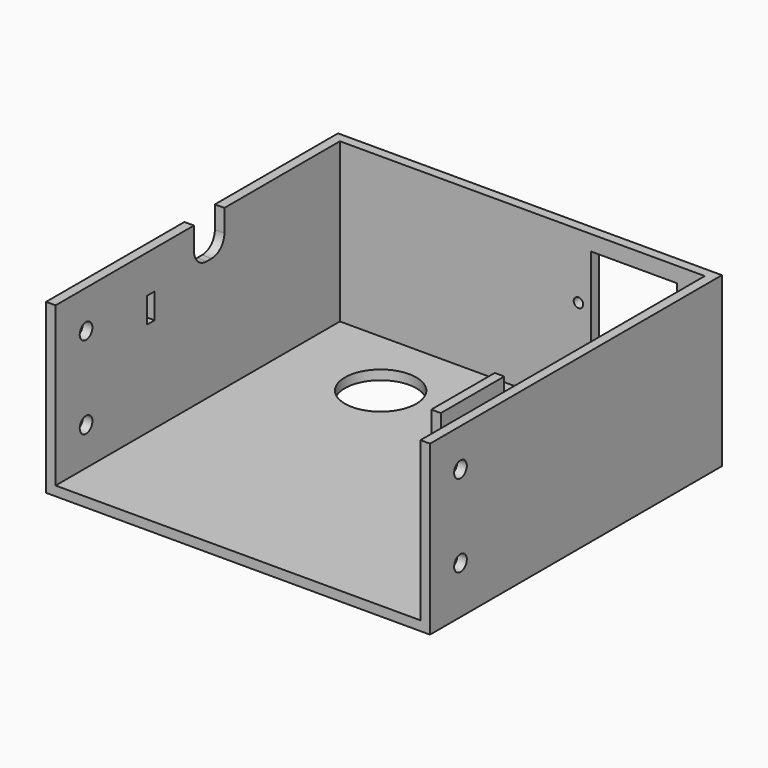
from build123d import *

# Parameters (mm, degrees)
F0_W      = 121
F0_H      = 115
F1_DEPTH  = 3
F3_DEPTH  = 50
F4_R      = 2.5
F5_DEPTH  = 121.001
F6_R      = 11.25
F6_R_2    = 6.25
F7_DEPTH  = 25
F8_W      = 3
F8_H      = 25
F9_DEPTH  = 8
F10_R     = 1.5
F11_DEPTH = 25
F13_DEPTH = 25
F14_R     = 2.5
F14_W     = 3
F14_H     = 8
F15_DEPTH = 25


with BuildPart() as f1:
    # F0 (on Top) → F1 (new body)
    with BuildSketch(Plane.XY):
        with Locations((-4.051243, 22.351279)):
            Rectangle(F0_W, F0_H)
    extrude(amount=F1_DEPTH)

    # F2 (on face) → F3 (join)
    with BuildSketch(Plane.XY.offset(3)):
        Polygon((56.448757, 79.851279), (-64.551243, 79.851279), (-64.551243, -35.148721), (-61.551243, -35.148721), (-61.551243, 76.851279), (53.448757, 76.851279), (53.448757, -35.148721), (56.448757, -35.148721), align=None)
    extrude(amount=F3_DEPTH)

    # F4 (on face) → F5 (cut, through all)
    with BuildSketch(Plane(origin=(-64.551243, 0, 0), x_dir=(0, -1, 0), z_dir=(-1, 0, 0))):
        with Locations((23.148721, 15)):
            Circle(F4_R)
        with Locations((23.148721, 41)):
            Circle(F4_R)
    extrude(amount=-F5_DEPTH, mode=Mode.SUBTRACT)

    # F6 (on face) → F7 (cut)
    with BuildSketch(Plane(origin=(0, 0, 0), x_dir=(1, 0, 0), z_dir=(0, 0, -1))):
        with Locations((-30.708815, -54.351279)):
            Circle(F6_R)
        with Locations((5.693216, -54.351279)):
            Circle(F6_R_2)
    extrude(amount=-F7_DEPTH, mode=Mode.SUBTRACT)

    # F8 (on face) → F9 (join)
    with BuildSketch(Plane.XY.offset(3)):
        with Locations((-3.556784, 54.730202)):
            Rectangle(F8_W, F8_H)
        with Locations((14.943216, 54.730202)):
            Rectangle(F8_W, F8_H)
    extrude(amount=F9_DEPTH)

    # F10 (on face) → F11 (cut)
    with BuildSketch(Plane(origin=(0, 79.851279, 0), x_dir=(-1, 0, 0), z_dir=(0, 1, 0))):
        with BuildLine():
            ThreePointArc((-44.634731, 22.153023), (-43.170264, 18.617489), (-39.634731, 17.153023))
            Line((-39.634731, 17.153023), (-22.634731, 17.153023))
            ThreePointArc((-22.634731, 17.153023), (-19.099197, 18.617489), (-17.634731, 22.153023))
            Line((-17.634731, 22.153023), (-17.634731, 48.153023))
            Line((-17.634731, 48.153023), (-44.634731, 48.153023))
            Line((-44.634731, 48.153023), (-44.634731, 22.153023))
        make_face()
        with Locations((-13.634731, 32.653023)):
            Circle(F10_R)
        with Locations((-48.634731, 32.653023)):
            Circle(F10_R)
    extrude(amount=-F11_DEPTH, mode=Mode.SUBTRACT)

    # F12 (on face) → F13 (cut)
    with BuildSketch(Plane(origin=(-64.551243, 0, 0), x_dir=(0, -1, 0), z_dir=(-1, 0, 0))):
        with BuildLine():
            Line((-19.351279, 62.000753), (-31.351279, 62.000753))
            Line((-31.351279, 62.000753), (-31.351279, 46))
            ThreePointArc((-31.351279, 46), (-29.886813, 42.464466), (-26.351279, 41))
            Line((-26.351279, 41), (-24.351279, 41))
            ThreePointArc((-24.351279, 41), (-20.815745, 42.464466), (-19.351279, 46))
            Line((-19.351279, 46), (-19.351279, 62.000753))
        make_face()
    extrude(amount=-F13_DEPTH, mode=Mode.SUBTRACT)

    # F14 (on face) → F15 (cut)
    with BuildSketch(Plane(origin=(-64.551243, 0, 0), x_dir=(0, -1, 0), z_dir=(-1, 0, 0))):
        with Locations((23.148721, 41)):
            Circle(F14_R)
        with Locations((-2.351279, 37)):
            Rectangle(F14_W, F14_H)
    extrude(amount=-F15_DEPTH, mode=Mode.SUBTRACT)


solid = f1.part
